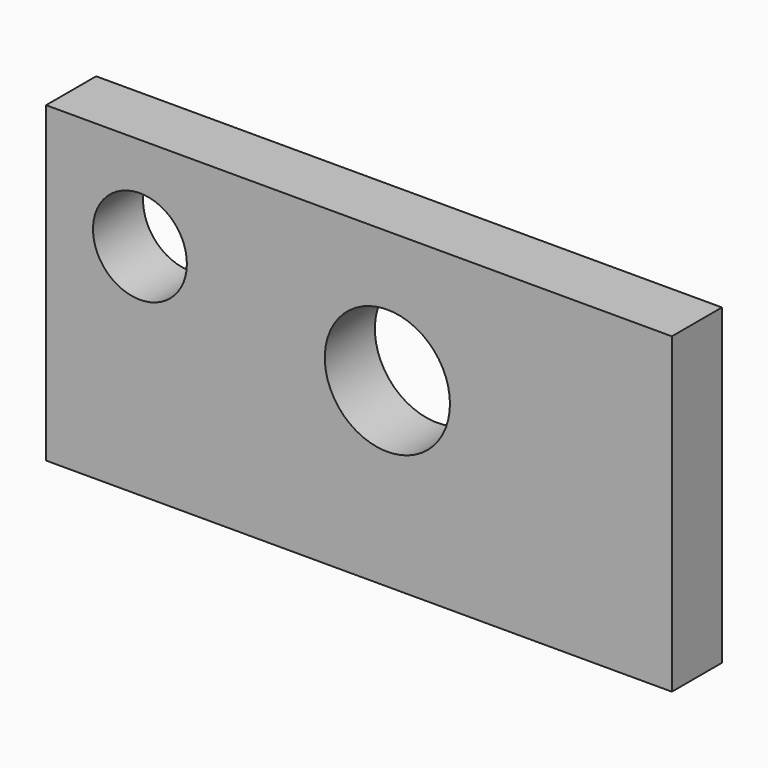
from build123d import *

# Parameters (mm, degrees)
F0_W     = 127
F0_H     = 63.5
F1_DEPTH = 12.7
F2_R     = 9.525
F2_R_2   = 12.7
F3_DEPTH = 12.701


with BuildPart() as f1:
    # F0 (on Front) → F1 (new body)
    with BuildSketch(Plane.XZ):
        with Locations((63.5, 31.75)):
            Rectangle(F0_W, F0_H)
    extrude(amount=F1_DEPTH)

    # F2 (on face) → F3 (cut, through all)
    with BuildSketch(Plane.XZ.offset(12.7)):
        with Locations((19.05, 44.45)):
            Circle(F2_R)
        with Locations((69.263702, 36.792062)):
            Circle(F2_R_2)
    extrude(amount=-F3_DEPTH, mode=Mode.SUBTRACT)


solid = f1.part
